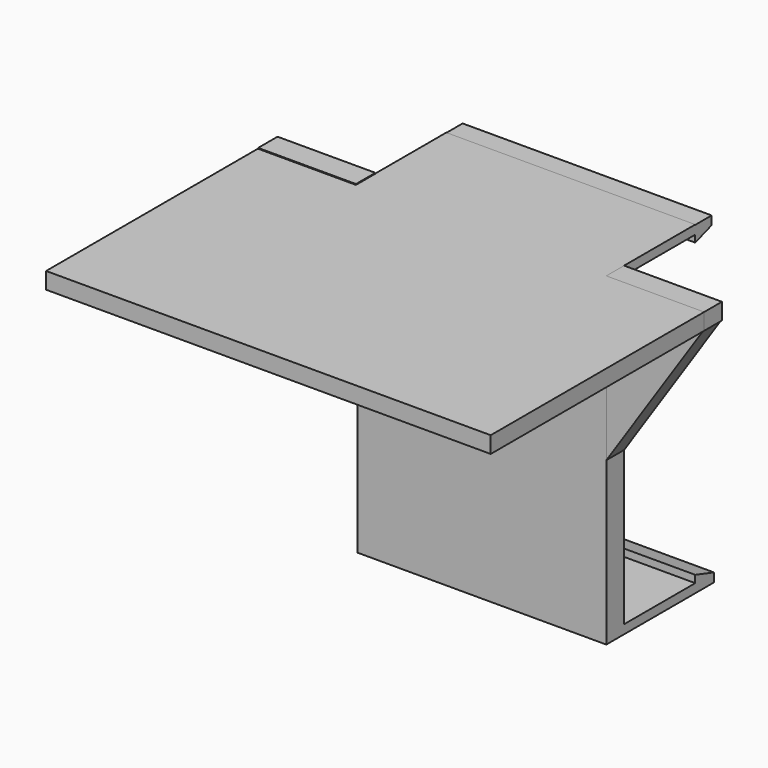
from build123d import *

# Parameters (mm, degrees)
F0_W      = 56
F0_H      = 69
F1_DEPTH  = 5
F2_W      = 56
F2_H      = 20
F2_H_2    = 5
F3_DEPTH  = 2
F4_W      = 4.6087592095
F4_H      = 1.93925488
F5_DEPTH  = 56
F6_W      = 56
F6_H      = 20
F6_H_2    = 5
F7_DEPTH  = 2
F8_W      = 5.2468083054
F8_H      = 2
F9_DEPTH  = 56
F10_W     = 22
F10_H     = 3.7164769792
F10_W_2   = 56
F11_DEPTH = 60
F13_DEPTH = 5
F15_DEPTH = 5.45125
F16_W     = 22
F16_H     = 3.7164769792
F17_DEPTH = 5


with BuildPart() as f1:
    # F0 (on Front) → F1 (new body)
    with BuildSketch(Plane.XZ):
        Rectangle(F0_W, F0_H)
    extrude(amount=F1_DEPTH)

    # F2 (on face) → F3 (join)
    with BuildSketch(Plane.XY.offset(34.5)):
        with Locations((0, 10)):
            Rectangle(F2_W, F2_H)
        with Locations((0, -2.5)):
            Rectangle(F2_W, F2_H_2)
    extrude(amount=F3_DEPTH)

    # F4 (on face) → F5 (join)
    with BuildSketch(Plane(origin=(-28, 0, 0), x_dir=(0, -1, 0), z_dir=(-1, 0, 0))):
        Polygon((-20, 32.9149998724), (-20, 34.5), (-24.6087592095, 34.5), align=None)
        with Locations((-22.3043796048, 35.46962744)):
            Rectangle(F4_W, F4_H)
    extrude(amount=-F5_DEPTH)

    # F6 (on face) → F7 (join)
    with BuildSketch(Plane(origin=(0, 0, -34.5), x_dir=(1, 0, 0), z_dir=(0, 0, -1))):
        with Locations((0, -10)):
            Rectangle(F6_W, F6_H)
        with Locations((0, 2.5)):
            Rectangle(F6_W, F6_H_2)
    extrude(amount=F7_DEPTH)

    # F8 (on face) → F9 (join)
    with BuildSketch(Plane.YZ.offset(28)):
        Polygon((20, -32.851787871), (20, -34.5), (25.2468083054, -34.5), align=None)
        with Locations((22.6234041527, -35.5)):
            Rectangle(F8_W, F8_H)
    extrude(amount=-F9_DEPTH)

    # F10 (on face) → F11 (join)
    with BuildSketch(Plane.XZ.offset(5)):
        with Locations((39, 34.6417615104)):
            Rectangle(F10_W, F10_H)
        with Locations((0, 34.6417615104)):
            Rectangle(F10_W_2, F10_H)
        with Locations((-39, 34.6417615104)):
            Rectangle(F10_W, F10_H)
    extrude(amount=F11_DEPTH)


with BuildPart() as f13:
    # F12 (on face) → F13 (new body)
    with BuildSketch(Plane.XZ.offset(5)):
        Polygon((49.8404502869, 32.7835230208), (28, 32.7835230208), (28, 0), align=None)
    extrude(amount=-F13_DEPTH)


with BuildPart() as f13b:
    # F12 (on face) → F13, piece 2 (new body)
    with BuildSketch(Plane.XZ.offset(5)):
        Polygon((-28, 0), (-28, 32.7835230208), (-49.9470122159, 32.7835230208), align=None)
    extrude(amount=-F13_DEPTH)


with BuildPart() as f15:
    # F14 (on face) → F15 (new body)
    with BuildSketch(Plane(origin=(0, 0, 0), x_dir=(-1, 0, 0), z_dir=(0, 1, 0))):
        Polygon((28, 32.7835230208), (49.9470122159, 32.7835230208), (49.9470122159, 36.680599041), (27.9470122159, 36.680599041), (27.9470122159, 32.7835230208), align=None)
    extrude(amount=-F15_DEPTH)


with BuildPart() as f17:
    # F16 (on face) → F17 (new body)
    with BuildSketch(Plane(origin=(0, -5, 0), x_dir=(-1, 0, 0), z_dir=(0, 1, 0))):
        with Locations((-39, 34.6417615104)):
            Rectangle(F16_W, F16_H)
    extrude(amount=F17_DEPTH)


solid = Compound([f1.part, f13.part, f13b.part, f15.part, f17.part])
